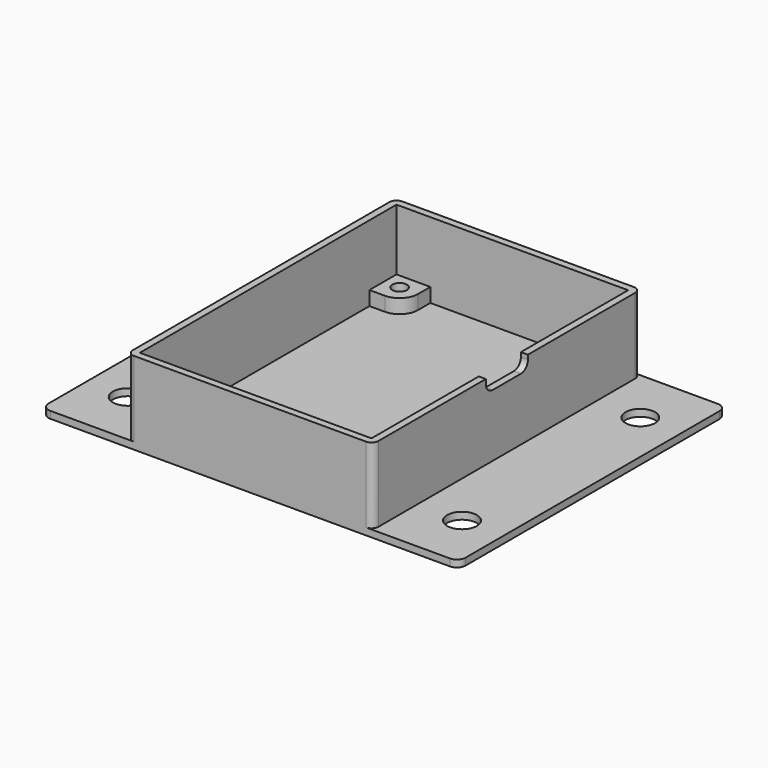
from build123d import *

# Parameters (mm, degrees)
SKETCH_W                = 52.8
SKETCH_H                = 73.12
PAD_DEPTH               = 17.221
THICKNESS_T             = 1.6
SKETCH001_R             = 1.67005
PAD001_DEPTH            = 3.221
SKETCH001_MIRRORED_2_R  = 1.67005
PAD001_MIRRORED_2_DEPTH = 3.221
PAD002_DEPTH            = 1.6
SKETCH003_R             = 3.3782
POCKET_DEPTH            = 1.601
POCKET001_DEPTH         = 1.6


with BuildPart() as part:
    # Sketch → Pad (new body)
    with BuildSketch(Plane.XY):
        Rectangle(SKETCH_W, SKETCH_H)
    extrude(amount=PAD_DEPTH)

    # Thickness
    thickness_openings = [part.faces().sort_by_distance(p)[0] for p in [
        (0, 0, 17.221),
    ]]
    offset(amount=THICKNESS_T, openings=thickness_openings)

    # Sketch001 → Pad001 (join)
    with BuildSketch(Plane.XY):
        with BuildLine():
            ThreePointArc((-22.86, 28.844875), (-19.907741, 30.067741), (-18.684875, 33.02))
            Line((-18.684875, 33.02), (-18.684875, 36.56))
            Line((-26.4, 36.56), (-18.684875, 36.56))
            Line((-26.4, 28.844875), (-26.4, 36.56))
            Line((-22.86, 28.844875), (-26.4, 28.844875))
        make_face()
        with Locations((-22.86, 33.02)):
            Circle(SKETCH001_R, mode=Mode.SUBTRACT)
    pad001 = extrude(amount=PAD001_DEPTH)

    # Sketch001 Mirrored 2 → Pad001 Mirrored 2 (add)
    with BuildSketch(Plane(origin=(0, 0, 0), x_dir=(-1, 0, 0), z_dir=(0, 0, -1))):
        with BuildLine():
            ThreePointArc((-22.86, 28.844875), (-19.907741, 30.067741), (-18.684875, 33.02))
            Line((-18.684875, 33.02), (-18.684875, 36.56))
            Line((-26.4, 36.56), (-18.684875, 36.56))
            Line((-26.4, 28.844875), (-26.4, 36.56))
            Line((-22.86, 28.844875), (-26.4, 28.844875))
        make_face()
        with Locations((-22.86, 33.02)):
            Circle(SKETCH001_MIRRORED_2_R, mode=Mode.SUBTRACT)
    pad001_mirrored_2 = extrude(amount=-PAD001_MIRRORED_2_DEPTH)

    # Mirrored001: Pad001, Pad001 Mirrored 2 across XZ
    add(pad001.mirror(Plane.XZ))
    add(pad001_mirrored_2.mirror(Plane.XZ))

    # Sketch002 → Pad002 (join)
    with BuildSketch(Plane.XY):
        with BuildLine():
            Line((-47.5375, 36.16), (-47.5375, -36.16))
            ThreePointArc((-47.5375, -36.16), (-46.951714, -37.574214), (-45.5375, -38.16))
            Line((-45.5375, -38.16), (45.5375, -38.16))
            ThreePointArc((45.5375, -38.16), (46.951714, -37.574214), (47.5375, -36.16))
            Line((47.5375, -36.16), (47.5375, 36.16))
            ThreePointArc((47.5375, 36.16), (46.951714, 37.574214), (45.5375, 38.16))
            Line((45.5375, 38.16), (-45.5375, 38.16))
            ThreePointArc((-45.5375, 38.16), (-46.951714, 37.574214), (-47.5375, 36.16))
        make_face()
    extrude(amount=-PAD002_DEPTH)

    # Sketch003 → Pocket (cut, through all)
    with BuildSketch(Plane.XY):
        with Locations((-38.1, 25.4)):
            Circle(SKETCH003_R)
        with Locations((38.1, 25.4)):
            Circle(SKETCH003_R)
        with Locations((-38.1, -25.4)):
            Circle(SKETCH003_R)
        with Locations((38.1, -25.4)):
            Circle(SKETCH003_R)
    extrude(amount=-POCKET_DEPTH, mode=Mode.SUBTRACT)

    # Sketch004 (on DatumPlane) → Pocket001 (cut)
    with BuildSketch(Plane.YZ.offset(28)):
        with BuildLine():
            Line((-6, 17.221), (6, 17.221))
            Line((6, 17.221), (6, 16.221))
            ThreePointArc((4, 14.221), (5.414214, 14.806786), (6, 16.221))
            Line((-4, 14.221), (4, 14.221))
            ThreePointArc((-6, 16.221), (-5.414214, 14.806786), (-4, 14.221))
            Line((-6, 17.221), (-6, 16.221))
        make_face()
    extrude(amount=-POCKET001_DEPTH, mode=Mode.SUBTRACT)


solid = part.part
